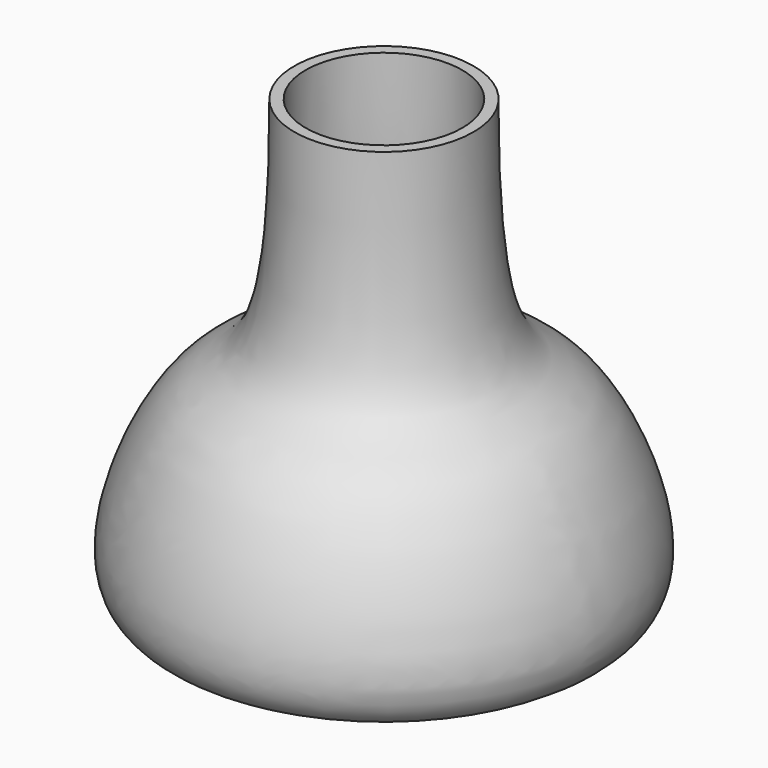
from build123d import *

# Parameters (mm, degrees)
F0_W = 50.8
F0_H = 50.8
F2_T = -3.175


with BuildPart() as f1:
    # F0 (on Front) → F1 (revolve)
    with BuildSketch(Plane.XZ):
        with Locations((25.4, 25.4)):
            Rectangle(F0_W, F0_H)
        with BuildLine():
            Line((50.8, 50.8), (50.8, 0))
            add(Edge.make_bspline(
                [(50.8, 50.8), (61.7949561025, 36.651716071), (74.2134751962, 0), (50.8, 0)],
                knots=[0.5570190523, 0.5570190523, 0.5570190523, 0.5570190523, 1, 1, 1, 1], degree=3))
        make_face()
        with BuildLine():
            Line((0, 127), (0, 50.8))
            Line((0, 50.8), (50.8, 50.8))
            add(Edge.make_bspline(
                [(25.4, 127), (25.4, 50.8), (36.9745746388, 68.590525185), (50.8, 50.8)],
                knots=[0, 0, 0, 0, 0.5570190523, 0.5570190523, 0.5570190523, 0.5570190523], degree=3))
            Line((25.4, 127), (0, 127))
        make_face()
    revolve(axis=Axis((0, 0, 88.9), (0, 0, 1)))

    # F2
    f2_openings = [f1.faces().sort_by_distance(p)[0] for p in [
        (0, 0, 127),
    ]]
    offset(amount=F2_T, openings=f2_openings)


solid = f1.part
